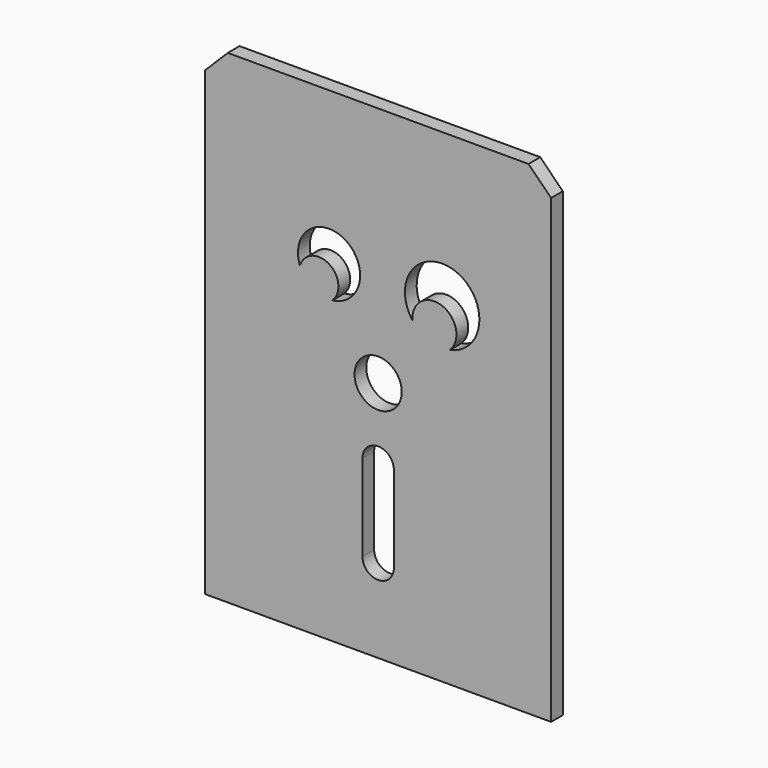
from build123d import *

# Parameters (mm, degrees)
F0_W     = 77.724
F0_H     = 108.712
F1_DEPTH = 3.302
F3_R     = 13.3445871966
F4_DEPTH = 3.302
F5_SIZE  = 5.08
F6_R     = 5.3013887341
F7_DEPTH = 3.303


with BuildPart() as f1:
    # F0 (on Front) → F1 (new body)
    with BuildSketch(Plane.XZ):
        Rectangle(F0_W, F0_H)
    extrude(amount=F1_DEPTH)

    # F3 (on face) → F4 (join)
    with BuildSketch(Plane.XZ.offset(3.302)):
        with BuildLine():
            add(Edge.make_bspline(
                [(-33.1284857231, -24.3833554431), (-30.3980902484, -23.448268281), (-27.6625298974, -23.0135580616), (-24.9168122419, -22.8877504962)],
                knots=[0.0236239796, 0.0236239796, 0.0236239796, 0.0236239796, 0.1438563975, 0.1438563975, 0.1438563975, 0.1438563975], degree=3))
            ThreePointArc((-33.1284857231, -24.3833554431), (-29.1410849834, -38.4326879001), (-15.8749999992, -44.5395771521))
            ThreePointArc((-15.8749999992, -44.5395771521), (-7.7803065213, -45.3411097626), (9e-10, -47.7145771515))
            ThreePointArc((9e-10, -47.7145771515), (7.780306523, -45.3411097624), (15.8750000008, -44.5395771515))
            ThreePointArc((15.8750000008, -44.5395771515), (28.9710149024, -38.6284104056), (33.2008619827, -24.8968448621))
            add(Edge.make_bspline(
                [(22.7832318895, -28.264905571), (26.870414184, -28.3483991479), (30.7081117423, -27.7740633769), (33.2008619827, -24.8968448621)],
                knots=[0.8224951004, 0.8224951004, 0.8224951004, 0.8224951004, 0.9908039431, 0.9908039431, 0.9908039431, 0.9908039431], degree=3))
            add(Edge.make_bspline(
                [(15.9953683619, -27.7933645546), (16.7598950609, -27.862629463), (19.0104314318, -28.0581684328), (21.3052242348, -28.2347126075), (22.7832318895, -28.264905571)],
                knots=[0.7300371536, 0.7300371536, 0.7300371536, 0.7300371536, 0.7616312241, 0.8224951004, 0.8224951004, 0.8224951004, 0.8224951004], degree=3))
            add(Edge.make_bspline(
                [(12.0445173218, -27.4086319137), (13.3501324037, -27.5450763369), (14.6659309282, -27.6729196282), (15.9953683619, -27.7933645546)],
                knots=[0.6750981435, 0.6750981435, 0.6750981435, 0.6750981435, 0.7300371536, 0.7300371536, 0.7300371536, 0.7300371536], degree=3))
            add(Edge.make_bspline(
                [(6.5035843618, -26.7679947406), (8.3365045469, -27.0014140297), (10.1801283043, -27.2137923413), (12.0445173218, -27.4086319137)],
                knots=[0.5966464709, 0.5966464709, 0.5966464709, 0.5966464709, 0.6750981435, 0.6750981435, 0.6750981435, 0.6750981435], degree=3))
            add(Edge.make_bspline(
                [(-15.7821923495, -23.3437299796), (-10.5480047667, -23.9624284424), (-3.1004870846, -25.4363431139), (4.3262408996, -26.490713729), (6.5035843618, -26.7679947406)],
                knots=[0.2765511336, 0.2765511336, 0.2765511336, 0.2765511336, 0.5034529768, 0.5966464709, 0.5966464709, 0.5966464709, 0.5966464709], degree=3))
            add(Edge.make_bspline(
                [(-24.9168122419, -22.8877504962), (-22.5127229742, -22.777596192), (-19.4725911361, -22.9372512735), (-16.4147628171, -23.2689580365), (-15.7821923495, -23.3437299796)],
                knots=[0.1438563975, 0.1438563975, 0.1438563975, 0.1438563975, 0.2491292266, 0.2765511336, 0.2765511336, 0.2765511336, 0.2765511336], degree=3))
        make_face()
        with BuildLine():
            ThreePointArc((-24.3962783332, -9.4429305632), (-23.5493439512, -16.2082072875), (-24.9168122419, -22.8877504962))
            add(Edge.make_bspline(
                [(-24.9168122419, -22.8877504962), (-22.5127229742, -22.777596192), (-19.4725911361, -22.9372512735), (-16.4147628171, -23.2689580365), (-15.7821923495, -23.3437299796)],
                knots=[0.1438563975, 0.1438563975, 0.1438563975, 0.1438563975, 0.2491292266, 0.2765511336, 0.2765511336, 0.2765511336, 0.2765511336], degree=3))
            ThreePointArc((-15.7821923495, -23.3437299796), (-16.7909764629, -16.1431204561), (-15.7821923495, -8.9425109327))
            add(Edge.make_bspline(
                [(-20.8150930703, 3.0249084812), (-20.084698855, 3.2617064252), (-18.5750809579, 3.7511331524), (-20.1108934357, 5.7423249077), (-21.3989497629, 8.4805039988), (-19.5926222129, 8.6232034417), (-20.0960081308, 6.4882204736), (-17.9845367, 4.4717269755), (-19.4827279307, 7.4877563676), (-17.6531933794, 7.9935220173), (-17.6518746238, 3.7165445405), (-19.7201607312, 2.5442912986), (-19.0033211234, 0.5113026434), (-21.5358089244, 0.646088536), (-20.7796208818, -5.7027505195), (-14.9489180074, 0.0978196974), (-17.977030073, 1.5236381763), (-14.9168721562, 2.6666255778), (-16.1211586732, 6.3598723413), (-13.8328776174, 5.6005762962), (-15.1421128769, 3.3154322822), (-14.4747759607, 0.1624480587), (-13.8084140261, 5.1188240441), (-11.0343102947, 2.7331078221), (-14.5615723999, -0.162479085), (-17.3031216925, -3.3366762112), (-18.0975664008, -8.8898410691), (-13.4356882131, -5.5746333853), (-15.3648709473, -3.8082111356), (-12.0527139611, -3.6659211986), (-13.248535603, -1.079337143), (-9.5910344453, -1.7447413323), (-10.7422685487, 3.0079941618), (-8.9849464366, -1.96339633), (-8.8102943074, 5.4988116301), (-7.4861779197, -0.6957485248), (-9.6724060403, -0.966318494), (-11.0218385517, -3.5291741027), (-13.7004320012, -4.2797101397), (-12.8029593717, -6.9381020727), (-14.7089673153, -8.2196946287), (-15.7821923495, -8.9425109327)],
                knots=[0, 0, 0, 0, 0.0231511603, 0.0478500744, 0.0752755755, 0.0903366321, 0.1142638791, 0.1352244444, 0.1593040946, 0.1744947233, 0.2060790631, 0.2315955315, 0.2516703156, 0.2733460952, 0.3049833457, 0.3431527772, 0.3650886659, 0.3896180862, 0.4183185893, 0.4354180503, 0.4626318971, 0.4841465121, 0.512674348, 0.5346264378, 0.5675595767, 0.6056671213, 0.6368592747, 0.6681518224, 0.6879987795, 0.7121233264, 0.7334743783, 0.7591560932, 0.7848708559, 0.8073025156, 0.8374341523, 0.8673194844, 0.8904493251, 0.9187369989, 0.9444600919, 0.9686867066, 1, 1, 1, 1], degree=3))
            add(Edge.make_bspline(
                [(-25.8914344013, -2.4853385985), (-26.396572956, -2.0003344615), (-27.3138435109, -1.1196261405), (-29.1352849859, -2.0598979002), (-28.7106271057, 0.8204026064), (-32.0312644098, -1.1715068103), (-31.3002695814, 3.7485837155), (-29.4483178555, 3.8301118075), (-30.8071023081, 1.5653871303), (-28.9526334159, 1.3619840648), (-29.4792210737, 5.2085047756), (-26.921055424, 4.4342075194), (-28.8119762327, 2.2854028303), (-27.5906596289, -1.3990701213), (-27.7699356497, 3.0747016102), (-25.2099586785, 2.6066763518), (-26.5953437573, -0.395391095), (-23.7025988652, -2.0340069969), (-23.1772681034, -6.0499515041), (-20.5435134821, -4.1808959475), (-25.0748704565, 2.6489737746), (-20.1368344266, 0.7949418705), (-20.6048167244, 2.3336418411), (-20.8150930703, 3.0249084812)],
                knots=[0, 0, 0, 0, 0.0457250435, 0.0830311605, 0.1245988121, 0.1705511092, 0.2321726775, 0.2625557415, 0.30723362, 0.3358214151, 0.393012377, 0.4286583434, 0.4808472993, 0.5282384525, 0.5813000538, 0.6192860311, 0.6705302416, 0.7286736986, 0.7872738172, 0.8280557864, 0.9074882994, 0.958434574, 1, 1, 1, 1], degree=3))
            ThreePointArc((-25.8914344013, -2.4853385985), (-24.9290967698, -4.9824855111), (-24.3962783332, -7.6050683856))
            add(Edge.make_bspline(
                [(-24.3962783332, -9.4429305632), (-25.4357243907, -10.1342055857), (-27.412273175, -11.4486922391), (-27.4547789496, -7.4214675852), (-30.5466070306, -9.5733915774), (-30.4542370334, -5.4520792207), (-32.3177618611, -5.8417990903), (-32.7140680164, -4.2769830225), (-32.0543630337, -2.7007935171), (-32.1251676799, -4.5533058245), (-30.3843482976, -5.4648837492), (-32.0501040037, -1.6640768267), (-30.4436660674, -1.9005229869), (-30.1720801803, -6.5942041642), (-29.7456686663, -3.178537531), (-28.1334595609, -3.5814958653), (-29.8697325683, -5.6494579394), (-29.5018476184, -7.7306733995), (-27.2359049314, -6.3250302911), (-26.4788550338, -9.3239236743), (-25.0993332141, -8.1853413666), (-24.3962783332, -7.6050683856)],
                knots=[0, 0, 0, 0, 0.0670169121, 0.1274354192, 0.1840138636, 0.2505621343, 0.2960523516, 0.3441354147, 0.3840734056, 0.4287810373, 0.4665753725, 0.5348972739, 0.5667760176, 0.6369485958, 0.6883070256, 0.7231632661, 0.7842390879, 0.8324575559, 0.8851485442, 0.9414679355, 1, 1, 1, 1], degree=3))
        make_face()
        with BuildLine():
            add(Edge.make_bspline(
                [(-20.2924981713, -15.781018883), (-20.5370775999, -16.1379246214), (-20.134132622, -17.1534868603), (-20.8639151565, -18.5661521393), (-21.9358468203, -19.4575377926), (-22.3700864307, -21.8865095148), (-20.237349518, -21.5763362209), (-19.5672362136, -20.438180371), (-19.2965010699, -18.8033454883), (-19.7803037906, -17.8720601229), (-19.908738804, -16.4540465799), (-19.0188083322, -15.0649598827), (-20.0853771822, -15.4787748635), (-20.2924981713, -15.781018883)],
                knots=[0, 0, 0, 0, 0.0904118203, 0.1854248684, 0.2814922978, 0.3865094541, 0.4809925493, 0.5711470892, 0.6690619631, 0.748512495, 0.8439845899, 0.9234351565, 1, 1, 1, 1], degree=3))
        make_face(mode=Mode.SUBTRACT)
        with BuildLine():
            add(Edge.make_bspline(
                [(-22.3910957575, -11.5529615432), (-22.0568118654, -12.2037220004), (-21.1170784891, -12.8832887919), (-21.7129777335, -14.1967346716), (-20.5379115522, -14.568750962), (-20.4867607869, -13.5076873001), (-20.8432701563, -11.8831681267), (-21.6439811905, -11.2404808042), (-22.9718655512, -9.3501247732), (-22.6978835435, -10.9557285785), (-22.3910957575, -11.5529615432)],
                knots=[0, 0, 0, 0, 0.1505340204, 0.2658311351, 0.3614801071, 0.4617187858, 0.6051372816, 0.7298931385, 0.8618479683, 1, 1, 1, 1], degree=3))
        make_face(mode=Mode.SUBTRACT)
        with BuildLine():
            add(Edge.make_bspline(
                [(-18.3790698647, -10.1024601609), (-18.7969421772, -10.2564427963), (-19.1553590595, -11.577398565), (-19.219348267, -12.6506630096), (-19.2408550579, -13.9350019391), (-18.8743899715, -14.8858473731), (-18.2833235222, -14.0155234153), (-18.1315989973, -13.0706647968), (-18.7065283271, -12.3462231403), (-18.4694817034, -11.2210464666), (-17.1590443019, -10.374237249), (-18.0760721444, -9.9908079022), (-18.3790698647, -10.1024601609)],
                knots=[0, 0, 0, 0, 0.1240572212, 0.2333232805, 0.347818092, 0.428679644, 0.5131510602, 0.6107152668, 0.7012679009, 0.8047604962, 0.9100465523, 1, 1, 1, 1], degree=3))
        make_face(mode=Mode.SUBTRACT)
        with BuildLine():
            ThreePointArc((5.4403450859, -12.5461180708), (6.6092683485, -19.609411059), (6.5035843618, -26.7679947406))
            add(Edge.make_bspline(
                [(6.5035843618, -26.7679947406), (8.3365045469, -27.0014140297), (10.1801283043, -27.2137923413), (12.0445173218, -27.4086319137)],
                knots=[0.5966464709, 0.5966464709, 0.5966464709, 0.5966464709, 0.6750981435, 0.6750981435, 0.6750981435, 0.6750981435], degree=3))
            Line((12.0445173218, -27.4086319137), (12.0445173218, -21.4756764472))
            ThreePointArc((12.0445173218, -21.4756764472), (14.0199428419, -19.5002509271), (15.9953683619, -21.4756764472))
            Line((15.9953683619, -21.4756764472), (15.9953683619, -27.7933645546))
            add(Edge.make_bspline(
                [(15.9953683619, -27.7933645546), (16.7598950609, -27.862629463), (19.0104314318, -28.0581684328), (21.3052242348, -28.2347126075), (22.7832318895, -28.264905571)],
                knots=[0.7300371536, 0.7300371536, 0.7300371536, 0.7300371536, 0.7616312241, 0.8224951004, 0.8224951004, 0.8224951004, 0.8224951004], degree=3))
            ThreePointArc((22.7832318895, -28.264905571), (22.4736636829, -20.3696155623), (23.5801553445, -12.5461180708))
            Line((23.5801553445, -12.5461180708), (28.4554600831, -13.4531514135))
            ThreePointArc((28.4554600831, -13.4531514135), (31.673336573, -11.9989868814), (31.424967593, -8.4765393743))
            ThreePointArc((31.424967593, -8.4765393743), (29.2529740879, -8.2440657168), (29.0205004305, -10.4160592219))
            ThreePointArc((29.0205004305, -10.4160592219), (29.058069024, -11.9208265797), (27.614886003, -12.3485636115))
            ThreePointArc((27.614886003, -12.3485636115), (23.4712314741, -5.8636115848), (28.4554600831, 0))
            ThreePointArc((28.4554600831, 0), (23.3706331923, -0.6006945639), (18.2612345592, -0.9328753515))
            Line((18.2612345592, -0.9328753515), (21.109645709, 8.6648291047))
            Line((21.109645709, 8.6648291047), (22.7452469365, 8.179414619))
            ThreePointArc((22.7452469365, 8.179414619), (24.0675287583, 9.9087492795), (21.9295363303, 9.4988517773))
            ThreePointArc((21.9295363303, 9.4988517773), (17.0915933325, 15.0640837031), (15.5871994793, 22.2831070423))
            Line((15.5871994793, 22.2831070423), (14.8853833456, 29.6840668302))
            Line((14.8853833456, 29.6840668302), (17.9889984262, 30.165095753))
            Line((17.9889984262, 30.165095753), (17.720128815, 31.8998516907))
            Line((17.720128815, 31.8998516907), (14.8043116011, 31.4479295364))
            Line((14.8043116011, 31.4479295364), (14.2361351446, 35.1138234881))
            Line((14.2361351446, 35.1138234881), (12.1174789965, 34.7854532301))
            Line((12.1174789965, 34.7854532301), (12.6562453806, 31.3093140721))
            Line((12.6562453806, 31.3093140721), (10.0379107516, 30.7162171018))
            Line((10.0379107516, 30.7162171018), (10.2517836951, 29.4975203391))
            Line((10.2517836951, 29.4975203391), (12.7509497106, 29.9361068755))
            Line((12.7509497106, 29.9361068755), (14.0939988196, 22.2831070423))
            ThreePointArc((14.0939988196, 22.2831070423), (12.6245914015, 15.2177663733), (7.6988285058, 9.9437681912))
            ThreePointArc((7.6988285058, 9.9437681912), (5.5906171254, 10.4864212664), (6.8022884056, 8.6778637491))
            Line((6.8022884056, 8.6778637491), (8.4650181234, 9.060157463))
            Line((8.4650181234, 9.060157463), (10.762639533, -0.9330055424))
            ThreePointArc((10.762639533, -0.9330055424), (5.6515483018, -0.6008483836), (0.5650403473, 0))
            ThreePointArc((0.5650403473, 0), (5.5492689564, -5.8636115848), (1.4056144274, -12.3485636115))
            ThreePointArc((1.4056144274, -12.3485636115), (-0.0375685935, -11.9208265797), (0, -10.4160592219))
            ThreePointArc((0, -10.4160592219), (-0.2324736575, -8.2440657168), (-2.4044671625, -8.4765393743))
            ThreePointArc((-2.4044671625, -8.4765393743), (-2.6528361426, -11.9989868814), (0.5650403473, -13.4531514135))
            Line((0.5650403473, -13.4531514135), (5.4403450859, -12.5461180708))
        make_face()
        Polygon((9.1227404773, -7.4148867279), (8.4774624556, -4.9826856703), (9.749203307, -4.868891682), (10.3401336819, -7.1323132142), align=None, mode=Mode.SUBTRACT)
        Polygon((10.9397291529, -9.5362256838), (9.768018499, -9.8470877856), (9.2899553012, -8.0451578014), (10.461665955, -7.7342956997), align=None, mode=Mode.SUBTRACT)
        Polygon((12.2584053658, -7.3401992658), (12.7159978886, -9.0649705743), (11.5734964264, -9.3680832964), (11.1159039036, -7.6433119879), align=None, mode=Mode.SUBTRACT)
        Polygon((10.332212454, -4.8167246576), (11.5597705233, -4.7068840966), (12.1378842059, -6.8859273354), (10.9000811353, -7.0559568703), align=None, mode=Mode.SUBTRACT)
        Polygon((17.9045965268, -7.6433119879), (17.4470040041, -9.3680832964), (16.3045025419, -9.0649705743), (16.7620950646, -7.3401992658), align=None, mode=Mode.SUBTRACT)
        Polygon((18.5588344754, -7.7342956997), (19.7305451293, -8.0451578014), (19.2524819314, -9.8470877856), (18.0807712776, -9.5362256838), align=None, mode=Mode.SUBTRACT)
        Polygon((18.6803667486, -7.1323132142), (19.2712971234, -4.868891682), (20.5430379748, -4.9826856703), (19.8977599531, -7.4148867279), align=None, mode=Mode.SUBTRACT)
        Polygon((16.8826162245, -6.8859273354), (17.4607299071, -4.7068840966), (18.6882879764, -4.8167246576), (18.1204192951, -7.0559568703), align=None, mode=Mode.SUBTRACT)
        with BuildLine():
            ThreePointArc((14.2767767446, 4.6611620079), (12.1414040207, 5.7303494735), (11.1097303552, 7.8840968947))
            Line((11.1097303552, 7.8840968947), (14.2767767446, 7.8840968947))
            Line((14.2767767446, 7.8840968947), (14.2767767446, 4.6611620079))
        make_face(mode=Mode.SUBTRACT)
        with BuildLine():
            ThreePointArc((11.1459939594, 8.983289175), (12.2280091457, 10.9819830574), (14.2767767446, 11.9658963789))
            Line((14.2767767446, 11.9658963789), (14.2767767446, 8.983289175))
            Line((14.2767767446, 8.983289175), (11.1459939594, 8.983289175))
        make_face(mode=Mode.SUBTRACT)
        with BuildLine():
            ThreePointArc((18.430607267, 7.8840968947), (17.3673699452, 5.6986165643), (15.1747141111, 4.6502567644))
            Line((15.1747141111, 4.6502567644), (15.1747141111, 7.8840968947))
            Line((15.1747141111, 7.8840968947), (18.430607267, 7.8840968947))
        make_face(mode=Mode.SUBTRACT)
        with BuildLine():
            ThreePointArc((15.1747141111, 11.9768016224), (17.2797356479, 11.0126579566), (18.3943436628, 8.983289175))
            Line((18.3943436628, 8.983289175), (15.1747141111, 8.983289175))
            Line((15.1747141111, 8.983289175), (15.1747141111, 11.9768016224))
        make_face(mode=Mode.SUBTRACT)
        with BuildLine():
            ThreePointArc((1.5084841621, 28.7364097307), (5.1963193944, 39.8156504287), (15.8749999992, 44.5395771521))
            ThreePointArc((15.8749999992, 44.5395771521), (7.7803065213, 45.3411097626), (-9e-10, 47.7145771515))
            ThreePointArc((-9e-10, 47.7145771515), (-7.780306523, 45.3411097624), (-15.8750000008, 44.5395771515))
            ThreePointArc((-15.8750000008, 44.5395771515), (-30.2008361805, 37.0625327748), (-32.2586794783, 21.0343995142))
            ThreePointArc((-32.2586794783, 21.0343995142), (-31.4618060576, 11.8664205536), (-35.4362714152, 3.5663922047))
            ThreePointArc((-35.4362714152, 3.5663922047), (-26.8661908779, 8.4248419398), (-17.0921185192, 9.6570447531))
            ThreePointArc((-17.0921185192, 9.6570447531), (-3.3712650978, 14.8871009528), (1.5084841621, 28.7364097307))
        make_face()
        with Locations((-15.8750000008, 27.0770771515)):
            Circle(F3_R, mode=Mode.SUBTRACT)
    extrude(amount=-F4_DEPTH)

    # F5
    f5_edges = [f1.edges().sort_by_distance(p)[0] for p in [
        (-38.862, -1.651, 54.356),
        (38.862, -1.651, 54.356),
    ]]
    chamfer(f5_edges, length=F5_SIZE)

    # F6 (on face) → F7 (cut, through all)
    with BuildSketch(Plane.XZ.offset(3.302)):
        with BuildLine():
            ThreePointArc((7.7055875118, 14.9568890088), (14.3869519234, 19.9922658503), (16.1040185067, 11.804022285))
            ThreePointArc((16.1040185067, 11.804022285), (17.3273949812, 27.8248545003), (7.7055875118, 14.9568890088))
        make_face()
        with BuildLine():
            ThreePointArc((-17.5703578104, 17.5679231172), (-11.0237821937, 19.9922658503), (-10.2514803949, 13.0540643597))
            ThreePointArc((-10.2514803949, 13.0540643597), (-7.3591826587, 25.9341342636), (-17.5703578104, 17.5679231172))
        make_face()
        Circle(F6_R)
        with BuildLine():
            Line((3.534168005, -35.3993587196), (3.534168005, -16.0025767982))
            ThreePointArc((3.534168005, -16.0025767982), (0, -12.4684087932), (-3.534168005, -16.0025767982))
            Line((-3.534168005, -16.0025767982), (-3.534168005, -35.3993587196))
            ThreePointArc((-3.534168005, -35.3993587196), (0, -38.9335267246), (3.534168005, -35.3993587196))
        make_face()
    extrude(amount=-F7_DEPTH, mode=Mode.SUBTRACT)


solid = f1.part
